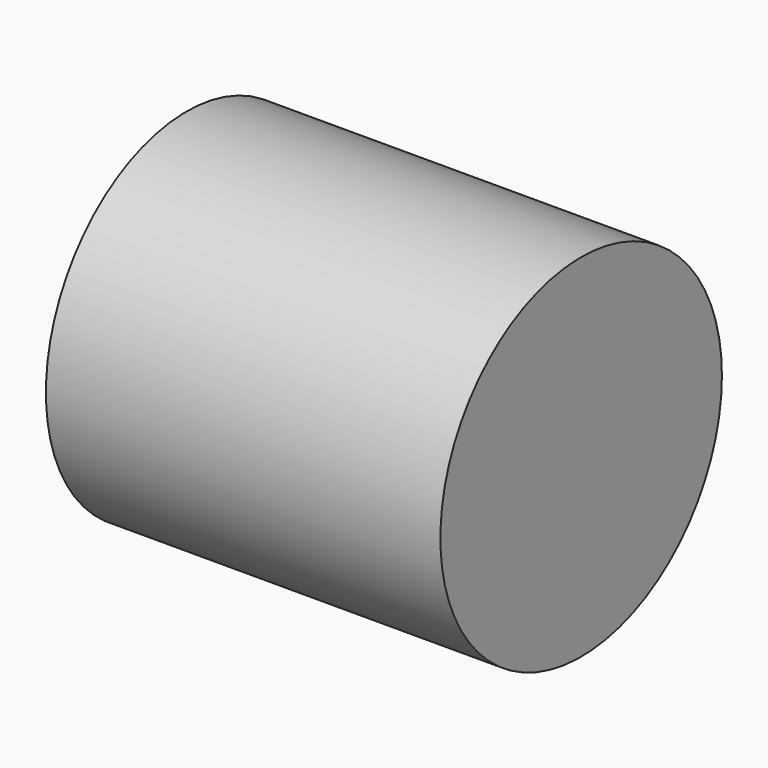
from build123d import *

# Parameters (mm, degrees)
F1_R     = 29.1926067126
F2_DEPTH = 128.65665555
F0_R     = 57.3845413785


with BuildPart() as f2:
    # F1 (on Right) → F2 (new body)
    with BuildSketch(Plane.YZ):
        Circle(F1_R)
    extrude(amount=F2_DEPTH)


with BuildPart() as f2b:
    # F0 (on Right) → F2, piece 2 (new body)
    with BuildSketch(Plane.YZ):
        Circle(F0_R)
    extrude(amount=F2_DEPTH)


solid = Compound([f2.part, f2b.part])
